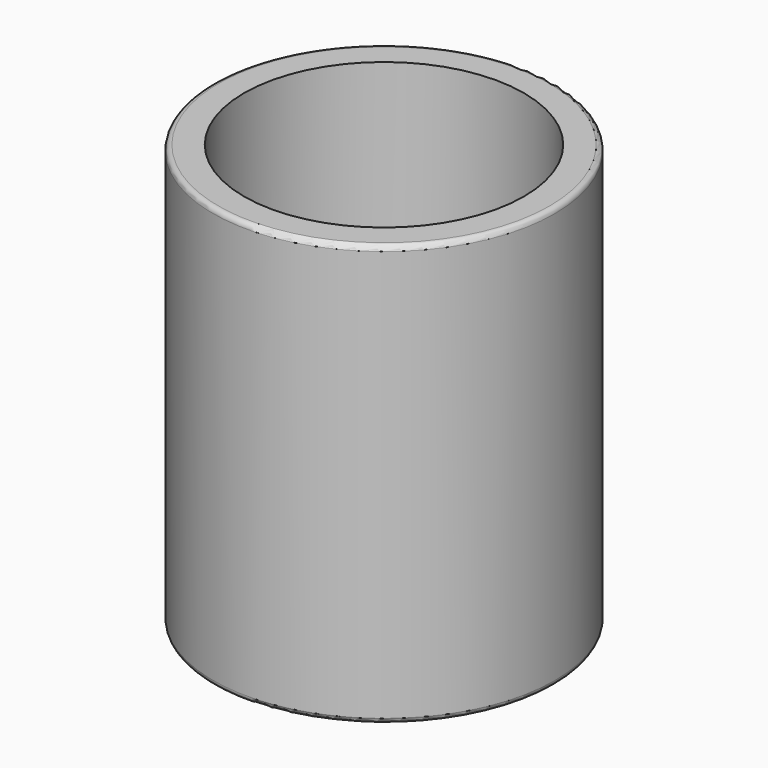
from build123d import *

# Parameters (mm, degrees)
F3_R     = 33.25
F4_DEPTH = 6
F5_R     = 33.25
F5_R_2   = 27.25
F6_DEPTH = 76
F7_D     = 5
F8_R     = 1


with BuildPart() as f4:
    # F3 (on Top) → F4 (new body)
    with BuildSketch(Plane.XY):
        Circle(F3_R)
    extrude(amount=F4_DEPTH)

    # F5 (on face) → F6 (join)
    with BuildSketch(Plane.XY.offset(6)):
        Circle(F5_R)
        Circle(F5_R_2, mode=Mode.SUBTRACT)
    extrude(amount=F6_DEPTH)

    # F7 (through all)
    with Locations(Plane(origin=(0, 0, 0), x_dir=(1, 0, 0), z_dir=(0, 0, -1))):
        with Locations((-15.125, -15.125), (15.125, -15.125), (15.125, 15.125), (-15.125, 15.125)):
            Hole(F7_D / 2)

    # F8
    f8_edges = [f4.edges().sort_by_distance(p)[0] for p in [
        (-33.25, 0, 0),
        (-33.25, 0, 82),
    ]]
    fillet(f8_edges, radius=F8_R)


solid = f4.part
